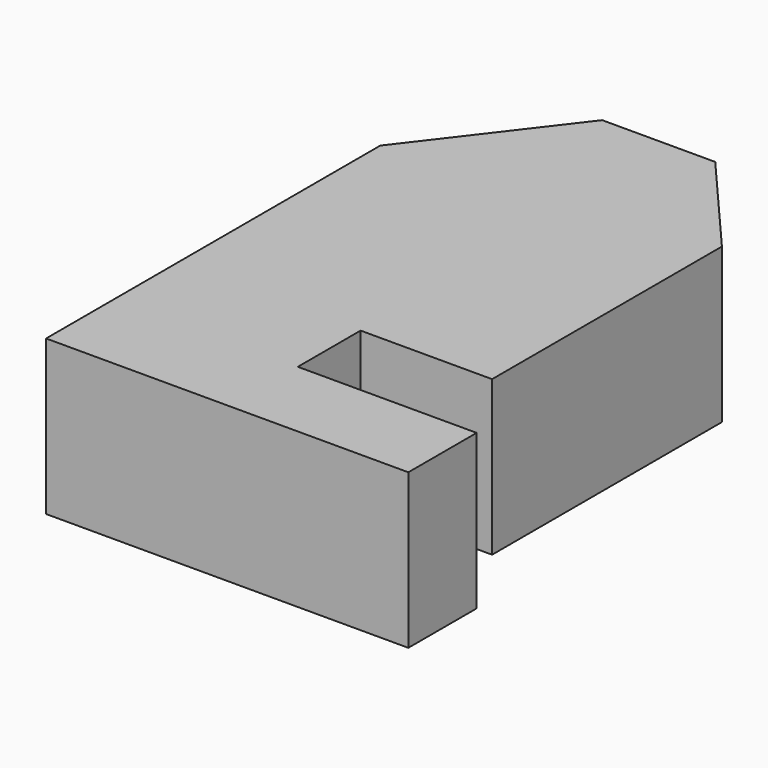
from build123d import *

# Parameters (mm, degrees)
F0_W     = 66.9934824109
F0_H     = 90.5065238476
F1_DEPTH = 25
F2_W     = 16.0485785455
F2_H     = 76.6972787678
F3_DEPTH = 25.001
F5_DEPTH = 25.001
F6_W     = 21.2736960966
F6_H     = 12.6895736903
F7_DEPTH = 25.001
F8_W     = 8.3975102752
F8_H     = 13.8092450798
F9_DEPTH = 25.001


with BuildPart() as f1:
    # F0 (on Top) → F1 (new body)
    with BuildSketch(Plane.XY):
        Rectangle(F0_W, F0_H)
    extrude(amount=F1_DEPTH)

    # F2 (on face) → F3 (cut, through all)
    with BuildSketch(Plane.XY.offset(25)):
        with Locations((25.4724519327, 6.9046225399)):
            Rectangle(F2_W, F2_H)
    extrude(amount=-F3_DEPTH, mode=Mode.SUBTRACT)

    # F4 (on face) → F5 (cut, through all)
    with BuildSketch(Plane.XY.offset(25)):
        Polygon((-33.4967412055, 22.3143491894), (-15.9534495324, 45.2532619238), (-33.4967412055, 45.2532619238), align=None)
        Polygon((17.44816266, 45.2532619238), (2.3326422088, 45.2532619238), (17.44816266, 27.7117881924), align=None)
    extrude(amount=-F5_DEPTH, mode=Mode.SUBTRACT)

    # F6 (on face) → F7 (cut, through all)
    with BuildSketch(Plane.XY.offset(25)):
        with Locations((6.8113146117, -25.0992299989)):
            Rectangle(F6_W, F6_H)
    extrude(amount=-F7_DEPTH, mode=Mode.SUBTRACT)

    # F8 (on face) → F9 (cut, through all)
    with BuildSketch(Plane.XY.offset(25)):
        with Locations((29.2979860678, -38.3486393839)):
            Rectangle(F8_W, F8_H)
    extrude(amount=-F9_DEPTH, mode=Mode.SUBTRACT)


solid = f1.part
